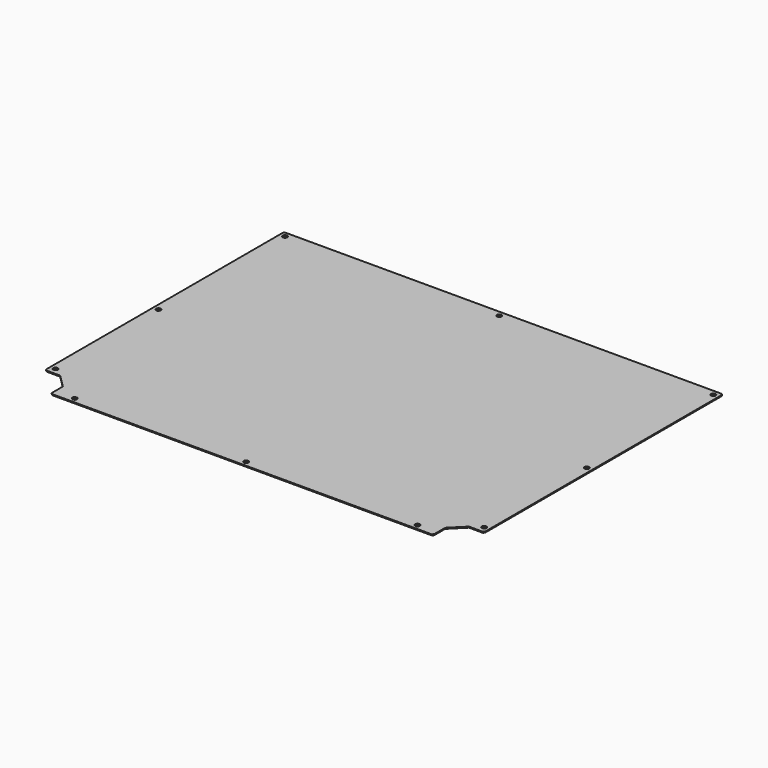
from build123d import *

# Parameters (mm, degrees)
F0_W     = 666
F0_H     = 496
F1_DEPTH = 1.5
F2_R     = 3.5
F3_DEPTH = 1.5
F6_DEPTH = 1.5


with BuildPart() as f1:
    # F0 (on Top) → F1 (new body)
    with BuildSketch(Plane.XY):
        Rectangle(F0_W, F0_H)
    extrude(amount=F1_DEPTH)

    # F2 (on face) → F3 (cut, through all)
    with BuildSketch(Plane.XY.offset(1.5)):
        with Locations((-325, 240)):
            Circle(F2_R)
        with Locations((0, 240)):
            Circle(F2_R)
        with Locations((325, 240)):
            Circle(F2_R)
        with Locations((325, 0)):
            Circle(F2_R)
        with Locations((325, -195)):
            Circle(F2_R)
        with Locations((260, -240)):
            Circle(F2_R)
        with Locations((-260, -240)):
            Circle(F2_R)
        with Locations((-325, -195)):
            Circle(F2_R)
        with Locations((-325, 0)):
            Circle(F2_R)
        with Locations((0, -240)):
            Circle(F2_R)
    extrude(amount=-F3_DEPTH, mode=Mode.SUBTRACT)

    # F5 (on face) → F6 (cut, through all)
    with BuildSketch(Plane.XY.offset(1.5)):
        Polygon((-331, 248), (-333, 248), (-333, 246), align=None)
        Polygon((-333, -205), (-333, -248), (-290, -248), (-288, -248), (-290, -246), (-290, -225), (-310, -205), (-331, -205), (-333, -203), align=None)
        Polygon((333, 248), (331, 248), (333, 246), align=None)
        Polygon((333, -205), (333, -203), (331, -205), (310, -205), (290, -225), (290, -246), (288, -248), (290, -248), (333, -248), align=None)
    extrude(amount=-F6_DEPTH, mode=Mode.SUBTRACT)


solid = f1.part
